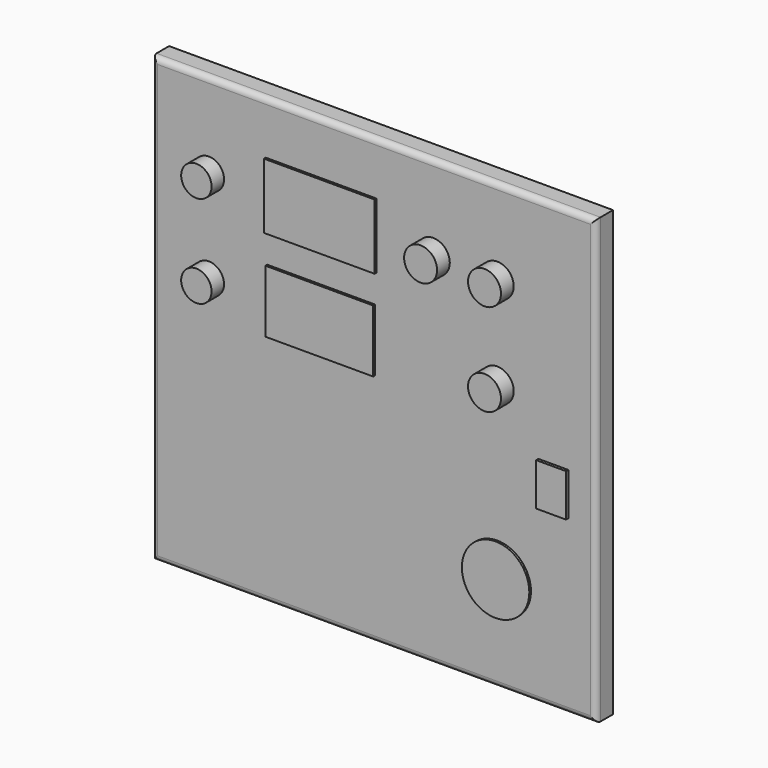
from build123d import *

# Parameters (mm, degrees)
F0_W      = 396.875
F0_H      = 396.875
F1_DEPTH  = 19.05
F2_W      = 392.811
F2_H      = 392.811
F3_DEPTH  = 17.018
F4_R      = 5.08
F5_R      = 5.08
F6_R      = 2.794
F7_DEPTH  = 17.018
F8_R      = 10.795
F8_W      = 86.36
F8_H      = 45.72
F9_DEPTH  = 19.051
F10_R     = 13.589
F11_DEPTH = 13.97
F12_W     = 99.06
F12_H     = 58.42
F12_W_2   = 96.52
F12_H_2   = 55.88
F13_DEPTH = 2.032
F14_R     = 14.732
F15_DEPTH = 14.224
F16_R     = 30.1625
F17_DEPTH = 1.8542
F18_W     = 26.67
F18_H     = 38.1
F19_DEPTH = 2.54


with BuildPart() as f1:
    # F0 (on Front) → F1 (new body)
    with BuildSketch(Plane.XZ):
        with Locations((198.4375, 198.4375)):
            Rectangle(F0_W, F0_H)
    extrude(amount=F1_DEPTH)

    # F2 (on Front) → F3 (cut)
    with BuildSketch(Plane.XZ):
        with Locations((198.4375, 198.4375)):
            Rectangle(F2_W, F2_H)
    extrude(amount=F3_DEPTH, mode=Mode.SUBTRACT)

    # F4
    f4_edges = [f1.edges().sort_by_distance(p)[0] for p in [
        (0, -19.05, 198.4375),
        (198.4375, -19.05, 0),
        (396.875, -19.05, 198.4375),
        (198.4375, -19.05, 396.875),
    ]]
    fillet(f4_edges, radius=F4_R)

    # F5
    f5_edges = [f1.edges().sort_by_distance(p)[0] for p in [
        (198.4375, -17.018, 2.032),
        (394.843, -17.018, 198.4375),
        (198.4375, -17.018, 394.843),
        (2.032, -17.018, 198.4375),
    ]]
    fillet(f5_edges, radius=F5_R)

    # F6 (on Front) → F7 (join, through all)
    with BuildSketch(Plane.XZ):
        with Locations((63.5, 65.532)):
            Circle(F6_R)
    extrude(amount=F7_DEPTH)

    # F8 (on face) → F9 (cut, through all)
    with BuildSketch(Plane.XZ.offset(19.05)):
        with Locations((50.8, 320.675)):
            Circle(F8_R)
        with Locations((50.8, 238.125)):
            Circle(F8_R)
        with Locations((151.13, 320.675)):
            Rectangle(F8_W, F8_H)
        with Locations((151.13, 238.125)):
            Rectangle(F8_W, F8_H)
        with Locations((251.46, 320.675)):
            Circle(F8_R)
        with Locations((308.61, 320.675)):
            Circle(F8_R)
        with Locations((308.61, 238.125)):
            Circle(F8_R)
        with Locations((308.61, 85.725)):
            Circle(F8_R)
    extrude(amount=-F9_DEPTH, mode=Mode.SUBTRACT)

    # F14 (on face) → F15 (join)
    with BuildSketch(Plane.XZ.offset(19.05)):
        with Locations((251.46, 320.675)):
            Circle(F14_R)
        with Locations((308.61, 320.675)):
            Circle(F14_R)
        with Locations((308.61, 238.125)):
            Circle(F14_R)
    extrude(amount=F15_DEPTH)

    # F18 (on face) → F19 (join)
    with BuildSketch(Plane.XZ.offset(19.05)):
        with Locations((358.775, 173.0375)):
            Rectangle(F18_W, F18_H)
    extrude(amount=F19_DEPTH)


with BuildPart() as f11:
    # F10 (on face) → F11 (new body)
    with BuildSketch(Plane.XZ.offset(19.05)):
        with Locations((50.8, 320.675)):
            Circle(F10_R)
        with Locations((50.8, 238.125)):
            Circle(F10_R)
    extrude(amount=F11_DEPTH)


with BuildPart() as f13:
    # F12 (on face) → F13 (new body)
    with BuildSketch(Plane.XZ.offset(19.05)):
        with Locations((151.13, 320.675)):
            Rectangle(F12_W, F12_H)
        with Locations((151.13, 238.125)):
            Rectangle(F12_W_2, F12_H_2)
    extrude(amount=F13_DEPTH)


with BuildPart() as f17:
    # F16 (on face) → F17 (new body)
    with BuildSketch(Plane.XZ.offset(19.05)):
        with Locations((308.61, 85.725)):
            Circle(F16_R)
    extrude(amount=F17_DEPTH)


solid = Compound([f1.part, f11.part, f13.part, f17.part])
